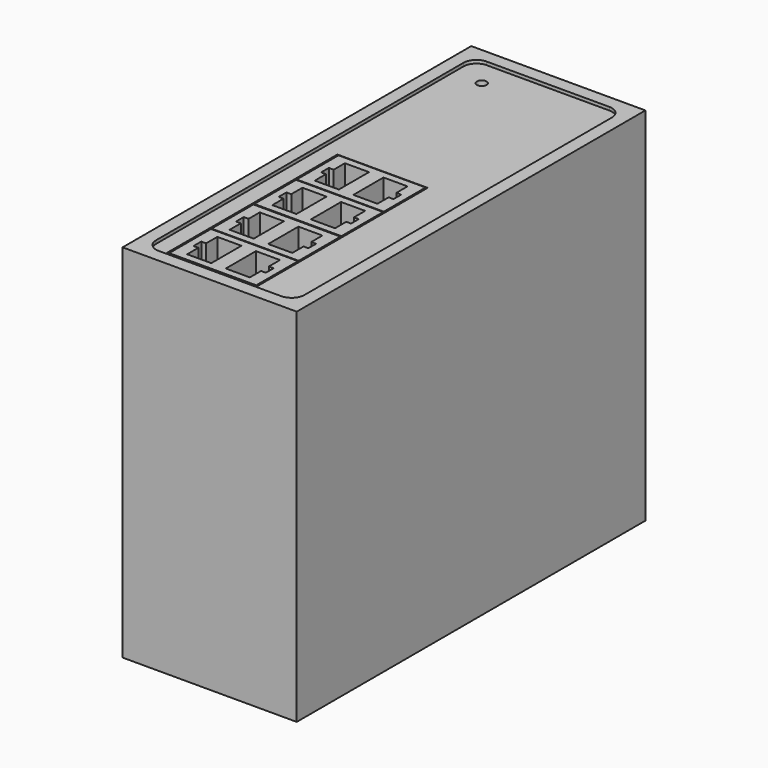
from build123d import *

# Parameters (mm, degrees)
F0_W      = 135.15
F0_H      = 112
F1_DEPTH  = 27
F3_DEPTH  = 1
F4_W      = 28
F4_H      = 66
F5_DEPTH  = 25
F6_W      = 27
F6_H      = 16.2
F7_DEPTH  = 25
F9_DEPTH  = 12.32
F10_R     = 1.5
F11_DEPTH = 5


with BuildPart() as f1:
    # F0 (on Right) → F1 (new body, symmetric)
    with BuildSketch(Plane.YZ):
        with Locations((0, 56)):
            Rectangle(F0_W, F0_H)
    extrude(amount=F1_DEPTH, both=True)

    # F2 (on face) → F3 (cut)
    with BuildSketch(Plane.XY.offset(112)):
        with BuildLine():
            ThreePointArc((23, 59.575), (21.828427, 62.403427), (19, 63.575))
            Line((19, 63.575), (-19, 63.575))
            ThreePointArc((-19, 63.575), (-21.828427, 62.403427), (-23, 59.575))
            Line((-23, 59.575), (-23, -59.575))
            ThreePointArc((-23, -59.575), (-21.828427, -62.403427), (-19, -63.575))
            Line((-19, -63.575), (19, -63.575))
            ThreePointArc((19, -63.575), (21.828427, -62.403427), (23, -59.575))
            Line((23, -59.575), (23, 59.575))
        make_face()
    extrude(amount=-F3_DEPTH, mode=Mode.SUBTRACT)

    # F4 (on face) → F5 (cut)
    with BuildSketch(Plane.XY.offset(111)):
        with Locations((-4, -28.575)):
            Rectangle(F4_W, F4_H)
    extrude(amount=-F5_DEPTH, mode=Mode.SUBTRACT)

    # F10 (on face) → F11 (cut)
    with BuildSketch(Plane.XY.offset(111)):
        with Locations((-14.041667, 55.454373)):
            Circle(F10_R)
    extrude(amount=-F11_DEPTH, mode=Mode.SUBTRACT)


with BuildPart() as f7:
    # F6 (on face) → F7 (new body)
    with BuildSketch(Plane.XY.offset(86)):
        with Locations((-4, -20.300343)):
            Rectangle(F6_W, F6_H)
        with Locations((-4, -3.849657)):
            Rectangle(F6_W, F6_H)
        with Locations((-4, -36.849657)):
            Rectangle(F6_W, F6_H)
        with Locations((-4, -53.300343)):
            Rectangle(F6_W, F6_H)
    extrude(amount=F7_DEPTH)

    # F8 (on face) → F9 (cut)
    with BuildSketch(Plane.XY.offset(111)):
        Polygon((-13.72, -9.689657), (-6.25, -9.689657), (-6.25, 1.990343), (-13.72, 1.990343), (-13.72, -2.349657), (-15.22, -2.349657), (-15.22, -5.349657), (-13.72, -5.349657), align=None)
        Polygon((7.22, -2.349657), (5.72, -2.349657), (5.72, 1.990343), (-1.75, 1.990343), (-1.75, -9.689657), (5.72, -9.689657), (5.72, -5.349657), (7.22, -5.349657), align=None)
        Polygon((5.72, -18.800343), (5.72, -14.460343), (-1.75, -14.460343), (-1.75, -26.140343), (5.72, -26.140343), (5.72, -21.800343), (7.22, -21.800343), (7.22, -18.800343), align=None)
        Polygon((-6.25, -26.140343), (-6.25, -14.460343), (-13.72, -14.460343), (-13.72, -18.800343), (-15.22, -18.800343), (-15.22, -21.800343), (-13.72, -21.800343), (-13.72, -26.140343), align=None)
        Polygon((5.72, -31.009657), (-1.75, -31.009657), (-1.75, -42.689657), (5.72, -42.689657), (5.72, -38.349657), (7.22, -38.349657), (7.22, -35.349657), (5.72, -35.349657), align=None)
        Polygon((-13.72, -42.689657), (-6.25, -42.689657), (-6.25, -31.009657), (-13.72, -31.009657), (-13.72, -35.349657), (-15.22, -35.349657), (-15.22, -38.349657), (-13.72, -38.349657), align=None)
        Polygon((5.72, -51.800343), (5.72, -47.460343), (-1.75, -47.460343), (-1.75, -59.140343), (5.72, -59.140343), (5.72, -54.800343), (7.22, -54.800343), (7.22, -51.800343), align=None)
        Polygon((-6.25, -59.140343), (-6.25, -47.460343), (-13.72, -47.460343), (-13.72, -51.800343), (-15.22, -51.800343), (-15.22, -54.800343), (-13.72, -54.800343), (-13.72, -59.140343), align=None)
    extrude(amount=-F9_DEPTH, mode=Mode.SUBTRACT)


solid = Compound([f1.part, f7.part])
